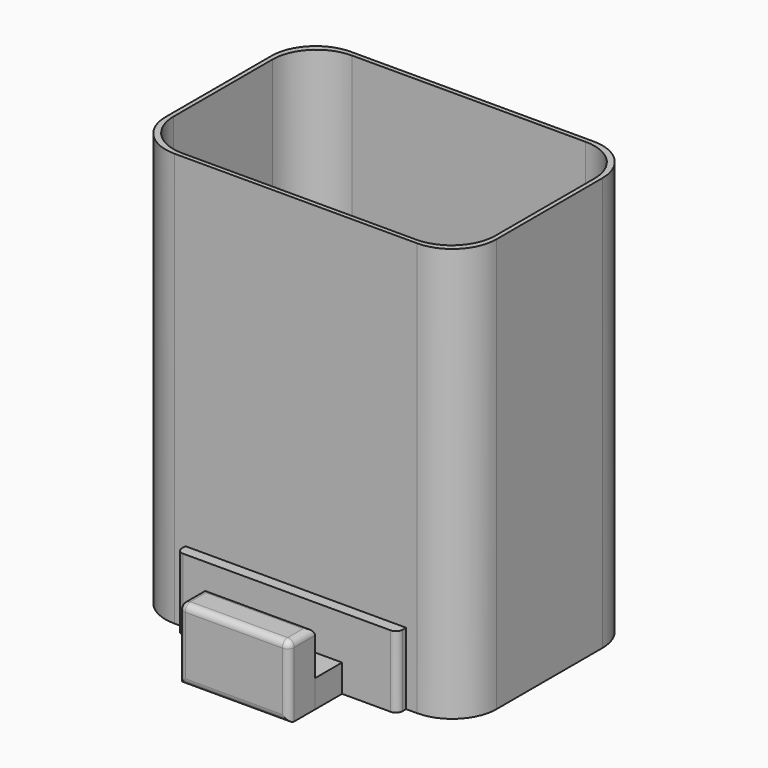
from build123d import *

# Parameters (mm, degrees)
F0_W     = 20
F0_H     = 5.9
F1_DEPTH = 13
F0_H_2   = 6.14
F2_DEPTH = 5
F0_W_2   = 58.4
F0_H_3   = 38.4
F3_DEPTH = 75
F4_R     = 1.2
F4_2_R   = 1.2
F5_R     = 8


with BuildPart() as f1:
    # F0 (on Top) → F1 (new body)
    with BuildSketch(Plane.XY):
        with Locations((0, -44.7030205363)):
            Rectangle(F0_W, F0_H)
    extrude(amount=F1_DEPTH)

    # F4
    f4_edges = [f1.edges().sort_by_distance(p)[0] for p in [
        (10, -47.653021, 6.5),
        (-10, -47.653021, 6.5),
        (10, -44.703021, 13),
        (0, -41.753021, 13),
        (-10, -44.703021, 13),
        (0, -47.653021, 13),
        (0, -47.653021, 0),
    ]]
    fillet(f4_edges, radius=F4_R)


with BuildPart() as f1b:
    # F0 (on Top) → F1, piece 2 (new body)
    with BuildSketch(Plane.XY):
        Polygon((20, -35.6130205363), (20, -33.6130205363), (-20, -33.6130205363), (-20, -35.6130205363), (-10, -35.6130205363), (10, -35.6130205363), align=None)
    extrude(amount=F1_DEPTH)

    # F0 (on Top) → F3 (join)
    with BuildSketch(Plane.XY):
        Polygon((20, -33.6130205363), (30, -33.6130205363), (30, 6.3869794637), (-30, 6.3869794637), (-30, -33.6130205363), (-20, -33.6130205363), align=None)
        with Locations((0, -13.6130205363)):
            Rectangle(F0_W_2, F0_H_3, mode=Mode.SUBTRACT)
    extrude(amount=F3_DEPTH)

    # F4#2
    f4_2_edges = [f1b.edges().sort_by_distance(p)[0] for p in [
        (20, -35.613021, 6.5),
        (-20, -35.613021, 6.5),
    ]]
    fillet(f4_2_edges, radius=F4_2_R)

    # F5
    f5_edges = [f1b.edges().sort_by_distance(p)[0] for p in [
        (29.2, 5.586979, 37.5),
        (29.2, -32.813021, 37.5),
        (-29.2, -32.813021, 37.5),
        (-29.2, 5.586979, 37.5),
        (-30, -33.613021, 37.5),
        (-30, 6.386979, 37.5),
        (30, -33.613021, 37.5),
        (30, 6.386979, 37.5),
    ]]
    fillet(f5_edges, radius=F5_R)


with BuildPart() as f2:
    # F0 (on Top) → F2 (new body)
    with BuildSketch(Plane.XY):
        with Locations((0, -38.6830205363)):
            Rectangle(F0_W, F0_H_2)
    extrude(amount=F2_DEPTH)


solid = Compound([f1.part, f1b.part, f2.part])
